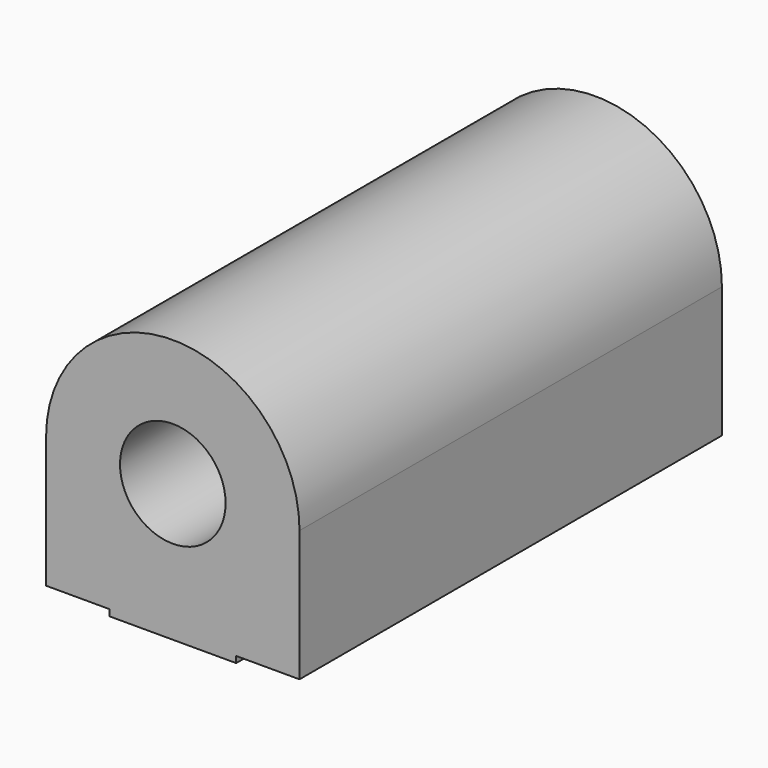
from build123d import *

# Parameters (mm, degrees)
F0_R     = 2.5
F1_DEPTH = 25


with BuildPart() as f1:
    # F0 (on Front) → F1 (new body)
    with BuildSketch(Plane.XZ):
        with BuildLine():
            Line((6, -6.2), (6, 0))
            ThreePointArc((6, 0), (0, 6), (-6, 0))
            Line((-6, 0), (-6, -6.2))
            Line((-6, -6.2), (-3, -6.2))
            Line((-3, -6.2), (-3, -6.5))
            Line((-3, -6.5), (3, -6.5))
            Line((3, -6.5), (3, -6.2))
            Line((3, -6.2), (6, -6.2))
        make_face()
        Circle(F0_R, mode=Mode.SUBTRACT)
    extrude(amount=F1_DEPTH)


solid = f1.part
